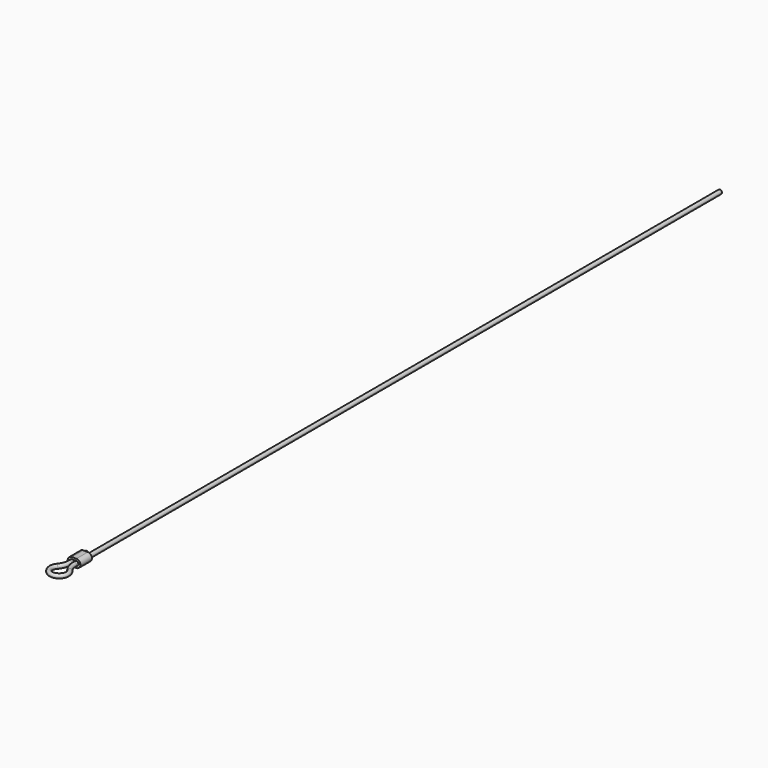
from build123d import *

# Parameters (mm, degrees)
F2_R     = 5
F6_DEPTH = 35


with BuildPart() as f3:
    # F3: sweep along a path in F0
    with BuildLine(Plane.XY) as f3_path:
        Line((-5.5, 90), (-5.5, 39.1120186132))
        ThreePointArc((-5.5, 39.1120186132), (-7.9944448559, 25.2075828701), (-15.1666666667, 13.0373395377))
        ThreePointArc((-15.1666666667, 13.0373395377), (0, -20), (15.1666666667, 13.0373395377))
        ThreePointArc((15.1666666667, 13.0373395377), (7.9944448559, 25.2075828701), (5.5, 39.1120186132))
        Line((5.5, 39.1120186132), (5.5, 2000))
    # F2 (on plane+point) → F3 (sweep)
    with BuildSketch(Plane.XZ.offset(-90)):
        with Locations((-5.5, 0)):
            Circle(F2_R)
    sweep(path=f3_path.line)

    # F5 (on offset) → F6 (join)
    with BuildSketch(Plane.XZ.offset(-80)):
        with BuildLine():
            Line((-5.5, -10.0000000344), (5.5, -10.0000000344))
            ThreePointArc((5.5, -10.0000000344), (15.5000000344, 0), (5.5, 10.0000000344))
            Line((5.5, 10.0000000344), (-5.5, 10.0000000344))
            ThreePointArc((-5.5, 10.0000000344), (-15.5000000344, 0), (-5.5, -10.0000000344))
        make_face()
        with BuildLine():
            ThreePointArc((-5.5, -5), (-10.5, 0), (-5.5, 5))
            Line((-5.5, 5), (5.5, 5))
            ThreePointArc((5.5, 5), (10.5, 0), (5.5, -5))
            Line((5.5, -5), (-5.5, -5))
        make_face(mode=Mode.SUBTRACT)
    extrude(amount=F6_DEPTH)


solid = f3.part
